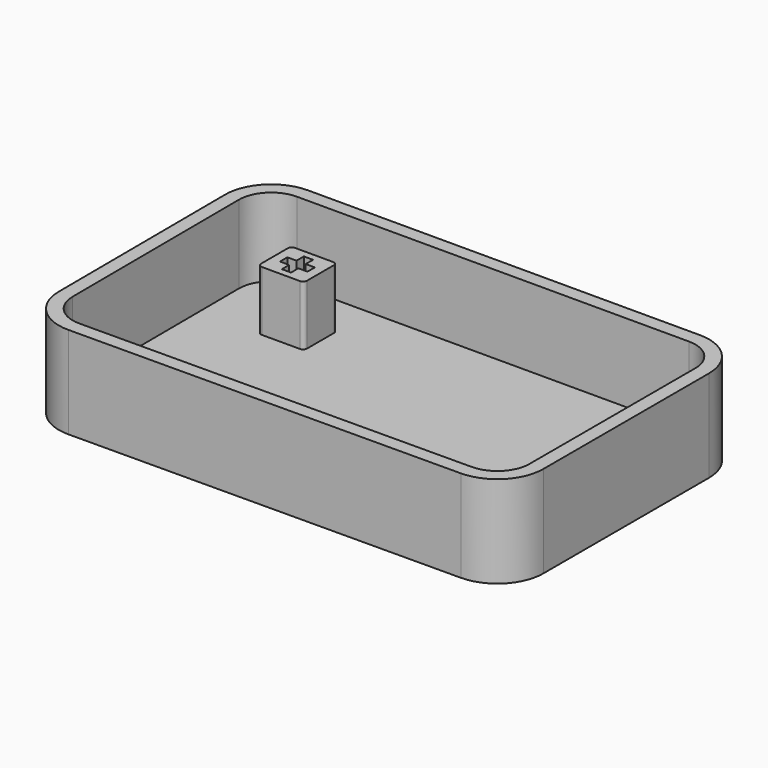
from build123d import *

# Parameters (mm, degrees)
F1_DEPTH = 8
F3_DEPTH = 10
F4_T     = -1.5


with BuildPart() as f1:
    # F0 (on Top) → F1 (new body)
    with BuildSketch(Plane.XY):
        with BuildLine():
            Line((1.189774, 3.375806), (-2.96138, 3.375806))
            ThreePointArc((-2.96138, 3.375806), (-3.261492, 3.251495), (-3.385803, 2.951383))
            Line((-3.385803, 2.951383), (-3.385803, -0.699771))
            ThreePointArc((-3.385803, -0.699771), (-3.261492, -0.999884), (-2.96138, -1.124194))
            Line((-2.96138, -1.124194), (1.189774, -1.124194))
            ThreePointArc((1.189774, -1.124194), (1.489887, -0.999884), (1.614197, -0.699771))
            Line((1.614197, -0.699771), (1.614197, 2.951383))
            ThreePointArc((1.614197, 2.951383), (1.489887, 3.251495), (1.189774, 3.375806))
        make_face()
        Polygon((-1.380715, 1.621239), (-1.385407, 2.625805), (-0.385407, 2.625805), (-0.385407, 1.625805), (0.609883, 1.625805), (0.609883, 0.625805), (-0.380715, 0.625805), (-0.380715, -0.374195), (-1.380715, -0.374195), (-1.380715, 0.621239), (-2.380715, 0.621239), (-2.380715, 1.621239), align=None, mode=Mode.SUBTRACT)
    extrude(amount=F1_DEPTH)


with BuildPart() as f3:
    # F2 (on Top) → F3 (new body)
    with BuildSketch(Plane.XY):
        with BuildLine():
            ThreePointArc((-11.188459, -18.443849), (-9.705821, -21.971801), (-6.162799, -23.418057))
            Line((-6.162799, -23.418057), (36.341362, -23.199365))
            ThreePointArc((36.341362, -23.199365), (39.860254, -21.725858), (41.315637, -18.199431))
            Line((41.315637, -18.199431), (41.315637, 4.333014))
            ThreePointArc((41.315637, 4.333014), (39.851171, 7.868547), (36.315637, 9.333014))
            Line((36.315637, 9.333014), (-6.305584, 9.333014))
            ThreePointArc((-6.305584, 9.333014), (-9.850202, 7.85944), (-11.305518, 4.307288))
            Line((-11.305518, 4.307288), (-11.188459, -18.443849))
        make_face()
    extrude(amount=F3_DEPTH)

    # F4
    f4_openings = [f3.faces().sort_by_distance(p)[0] for p in [
        (14.999389, -6.980283, 10),
    ]]
    offset(amount=F4_T, openings=f4_openings)


solid = Compound([f1.part, f3.part])
